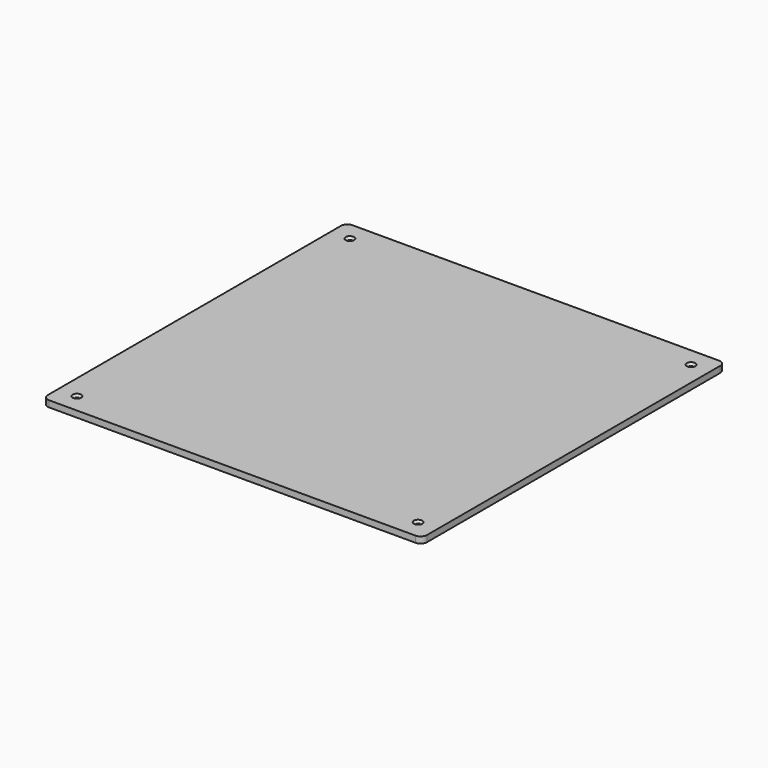
from build123d import *

# Parameters (mm, degrees)
F0_W           = 300
F0_H           = 300
F1_DEPTH       = 5
F2_D           = 3.3
F2_CSINK_D     = 6.72
F2_CSINK_ANGLE = 90
F3_R           = 5


with BuildPart() as f1:
    # F0 (on Top) → F1 (new body)
    with BuildSketch(Plane.XY):
        Rectangle(F0_W, F0_H)
    extrude(amount=-F1_DEPTH)

    # F2 (through all)
    with Locations(Plane.XY):
        with Locations((-135, 135), (-135, -135), (135, -135), (135, 135)):
            CounterSinkHole(F2_D / 2, F2_CSINK_D / 2, counter_sink_angle=F2_CSINK_ANGLE)

    # F3
    f3_edges = [f1.edges().sort_by_distance(p)[0] for p in [
        (-150, 150, -2.5),
        (150, 150, -2.5),
        (150, -150, -2.5),
        (-150, -150, -2.5),
    ]]
    fillet(f3_edges, radius=F3_R)


solid = f1.part
